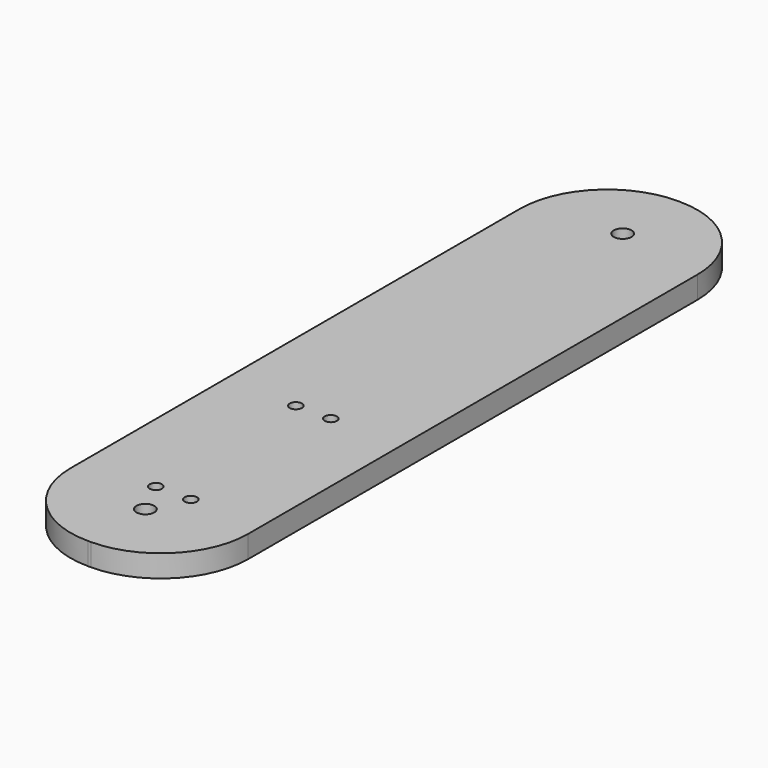
from build123d import *

# Parameters (mm, degrees)
F0_R     = 1.75
F0_R_2   = 2.55
F1_DEPTH = 6.35


with BuildPart() as f1:
    # F0 (on Top) → F1 (new body)
    with BuildSketch(Plane.XY):
        with BuildLine():
            ThreePointArc((25.4, 80.25), (18.07767, 97.92767), (0.4, 105.25))
            Line((0.4, 105.25), (-0.4, 105.25))
            ThreePointArc((-0.4, 105.25), (-18.07767, 97.92767), (-25.4, 80.25))
            Line((-25.4, 80.25), (-25.4, -80.25))
            ThreePointArc((-25.4, -80.25), (-18.07767, -97.92767), (-0.4, -105.25))
            Line((-0.4, -105.25), (0.4, -105.25))
            ThreePointArc((0.4, -105.25), (18.07767, -97.92767), (25.4, -80.25))
            Line((25.4, -80.25), (25.4, 80.25))
        make_face()
        with Locations((-5, -75.25)):
            Circle(F0_R, mode=Mode.SUBTRACT)
        with Locations((-5, -25.25)):
            Circle(F0_R, mode=Mode.SUBTRACT)
        with Locations((0, -85.25)):
            Circle(F0_R_2, mode=Mode.SUBTRACT)
        with Locations((5, -75.25)):
            Circle(F0_R, mode=Mode.SUBTRACT)
        with Locations((5, -25.25)):
            Circle(F0_R, mode=Mode.SUBTRACT)
        with Locations((0, 85.25)):
            Circle(F0_R_2, mode=Mode.SUBTRACT)
    extrude(amount=F1_DEPTH)


solid = f1.part
